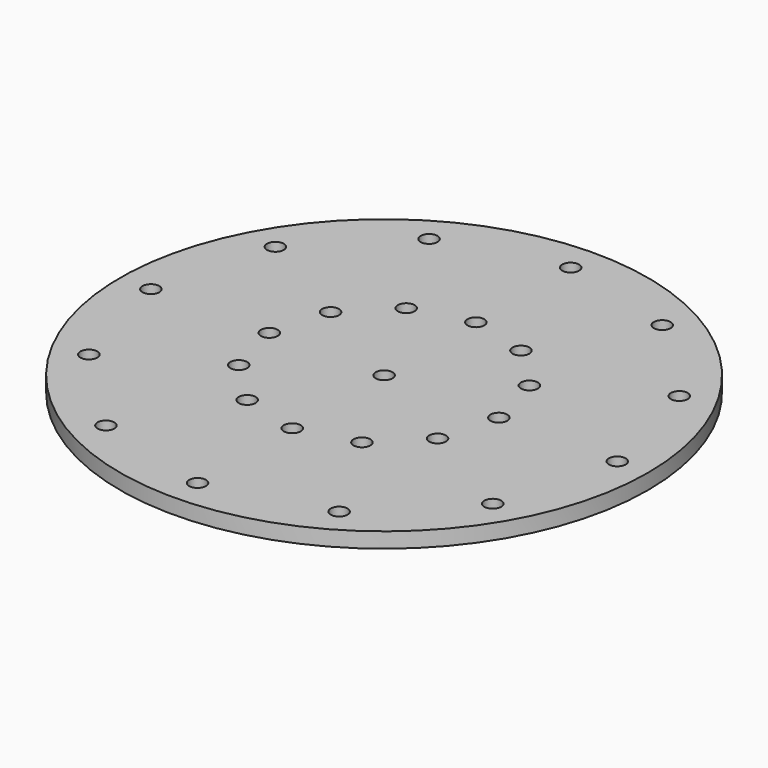
from build123d import *

# Parameters (mm, degrees)
F0_R     = 172.5
F0_R_2   = 5.5
F1_DEPTH = 10


with BuildPart() as f1:
    # F0 (on Top) → F1 (new body)
    with BuildSketch(Plane.XY):
        Circle(F0_R)
        with Locations((-76.2, -131.982272)):
            Circle(F0_R_2, mode=Mode.SUBTRACT)
        with Locations((-131.982272, -76.2)):
            Circle(F0_R_2, mode=Mode.SUBTRACT)
        with Locations((-37.5, -64.951905)):
            Circle(F0_R_2, mode=Mode.SUBTRACT)
        with Locations((-64.951905, -37.5)):
            Circle(F0_R_2, mode=Mode.SUBTRACT)
        with Locations((0, -152.4)):
            Circle(F0_R_2, mode=Mode.SUBTRACT)
        with Locations((76.2, -131.982272)):
            Circle(F0_R_2, mode=Mode.SUBTRACT)
        with Locations((0, -75)):
            Circle(F0_R_2, mode=Mode.SUBTRACT)
        with Locations((37.5, -64.951905)):
            Circle(F0_R_2, mode=Mode.SUBTRACT)
        with Locations((64.951905, -37.5)):
            Circle(F0_R_2, mode=Mode.SUBTRACT)
        with Locations((131.982272, -76.2)):
            Circle(F0_R_2, mode=Mode.SUBTRACT)
        with Locations((-152.4, 0)):
            Circle(F0_R_2, mode=Mode.SUBTRACT)
        with Locations((-131.982272, 76.2)):
            Circle(F0_R_2, mode=Mode.SUBTRACT)
        with Locations((-75, 0)):
            Circle(F0_R_2, mode=Mode.SUBTRACT)
        with Locations((-64.951905, 37.5)):
            Circle(F0_R_2, mode=Mode.SUBTRACT)
        with Locations((-37.5, 64.951905)):
            Circle(F0_R_2, mode=Mode.SUBTRACT)
        with Locations((-76.2, 131.982272)):
            Circle(F0_R_2, mode=Mode.SUBTRACT)
        Circle(F0_R_2, mode=Mode.SUBTRACT)
        with Locations((75, 0)):
            Circle(F0_R_2, mode=Mode.SUBTRACT)
        with Locations((64.951905, 37.5)):
            Circle(F0_R_2, mode=Mode.SUBTRACT)
        with Locations((0, 75)):
            Circle(F0_R_2, mode=Mode.SUBTRACT)
        with Locations((37.5, 64.951905)):
            Circle(F0_R_2, mode=Mode.SUBTRACT)
        with Locations((152.4, 0)):
            Circle(F0_R_2, mode=Mode.SUBTRACT)
        with Locations((131.982272, 76.2)):
            Circle(F0_R_2, mode=Mode.SUBTRACT)
        with Locations((0, 152.4)):
            Circle(F0_R_2, mode=Mode.SUBTRACT)
        with Locations((76.2, 131.982272)):
            Circle(F0_R_2, mode=Mode.SUBTRACT)
    extrude(amount=F1_DEPTH)


solid = f1.part
